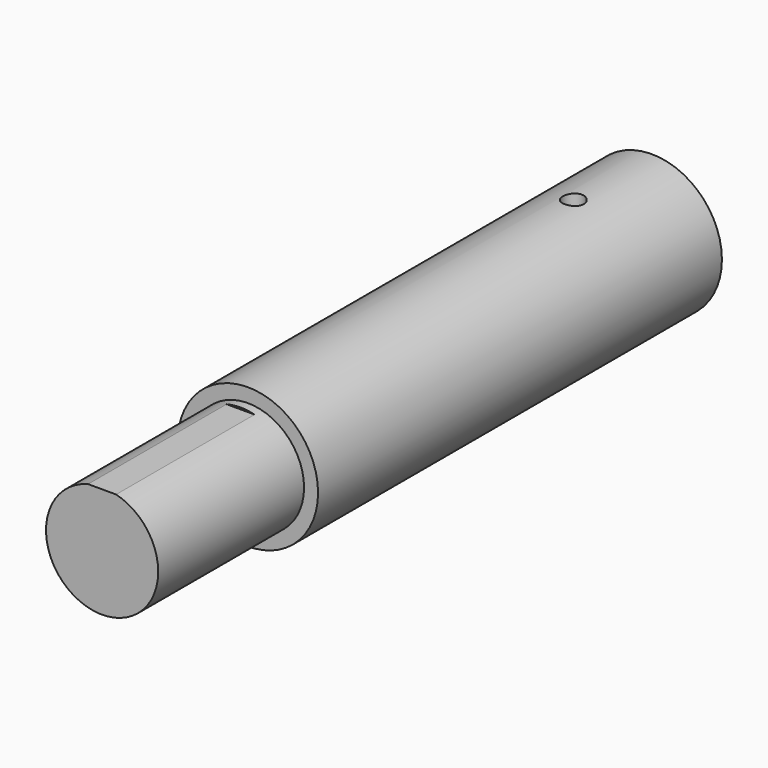
from build123d import *

# Parameters (mm, degrees)
F0_R      = 25
F1_DEPTH  = 180
F2_R      = 20
F3_DEPTH  = 65
F4_W      = 10
F4_H      = 3.1937984634
F5_DEPTH  = 61.7
F7_D      = 24.16
F7_DEPTH  = 75
F7_TIP    = 7.2583962779
F8_W      = 10
F8_H      = 5.6645046324
F9_DEPTH  = 70
F11_R     = 2
F12_DEPTH = 25
F13_R     = 3.75
F14_DEPTH = 6


with BuildPart() as f1:
    # F0 (on Front) → F1 (new body)
    with BuildSketch(Plane.XZ):
        Circle(F0_R)
    extrude(amount=F1_DEPTH)

    # F2 (on face) → F3 (join)
    with BuildSketch(Plane.XZ.offset(180)):
        Circle(F2_R)
    extrude(amount=F3_DEPTH)

    # F4 (on face) → F5 (cut)
    with BuildSketch(Plane.XZ.offset(245)):
        with Locations((0, 20.9618159628)):
            Rectangle(F4_W, F4_H)
    extrude(amount=-F5_DEPTH, mode=Mode.SUBTRACT)

    # F7
    with Locations(Plane(origin=(0, 0, 0), x_dir=(-1, 0, 0), z_dir=(0, 1, 0))):
        with Locations((0, 0)):
            Hole(F7_D / 2, depth=F7_DEPTH)
            with Locations((0, 0, -(F7_DEPTH + F7_TIP / 2))):  # 118° drill point
                Cone(0, F7_D / 2, F7_TIP, mode=Mode.SUBTRACT)

    # F8 (on face) → F9 (cut)
    with BuildSketch(Plane(origin=(0, 0, 0), x_dir=(-1, 0, 0), z_dir=(0, 1, 0))):
        with Locations((0, 11.6677476838)):
            Rectangle(F8_W, F8_H)
    extrude(amount=-F9_DEPTH, mode=Mode.SUBTRACT)

    # F11 (on offset) → F12 (cut)
    with BuildSketch(Plane.XY.offset(25)):
        with Locations((0, -35)):
            Circle(F11_R)
    extrude(amount=-F12_DEPTH, mode=Mode.SUBTRACT)

    # F13 (on offset) → F14 (cut)
    with BuildSketch(Plane.XY.offset(25)):
        with Locations((0, -34.9959954619)):
            Circle(F13_R)
    extrude(amount=-F14_DEPTH, mode=Mode.SUBTRACT)


solid = f1.part
